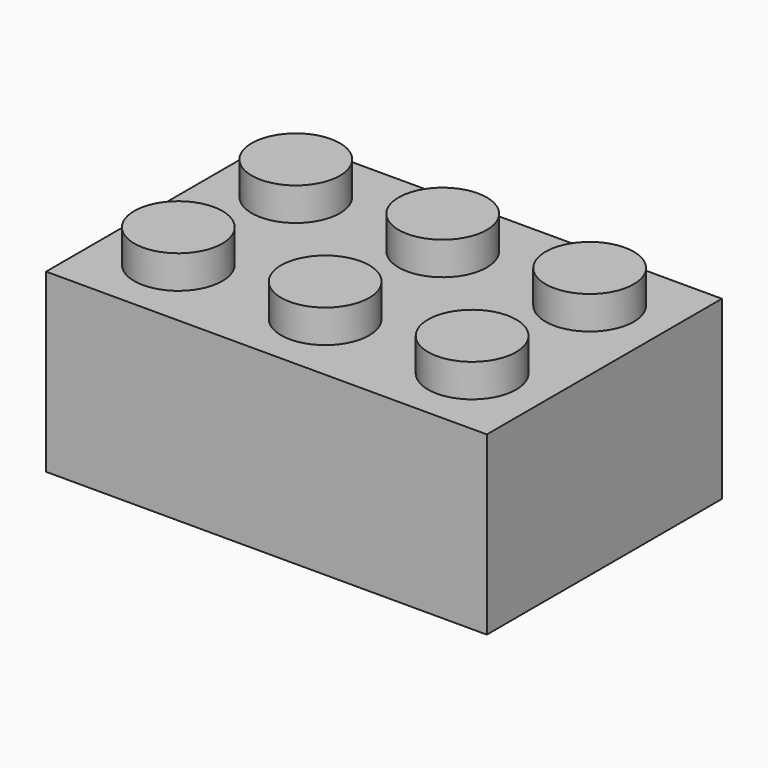
from build123d import *

# Parameters (mm, degrees)
F0_W     = 24.003
F0_H     = 16.002
F1_DEPTH = 9.6
F2_R     = 2.4
F3_DEPTH = 1.8


with BuildPart() as f1:
    # F0 (on Top) → F1 (new body)
    with BuildSketch(Plane.XY):
        with Locations((-12.0015, 8.001)):
            Rectangle(F0_W, F0_H)
    extrude(amount=F1_DEPTH)

    # F2 (on face) → F3 (join)
    with BuildSketch(Plane.XY.offset(9.6)):
        with Locations((-12.003, 12.0015)):
            Circle(F2_R)
        with Locations((-20.003, 12.0015)):
            Circle(F2_R)
        with Locations((-4.0015, 12.0015)):
            Circle(F2_R)
        with Locations((-4.0015, 4.0005)):
            Circle(F2_R)
        with Locations((-12.003, 4.0005)):
            Circle(F2_R)
        with Locations((-20.003, 4.0005)):
            Circle(F2_R)
    extrude(amount=F3_DEPTH)


solid = f1.part
